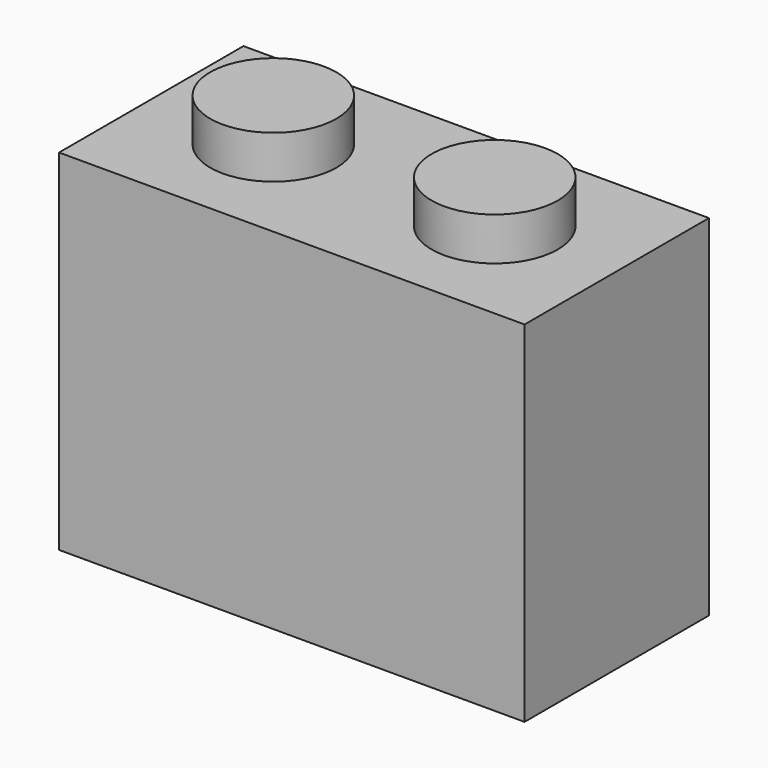
from build123d import *

# Parameters (mm, degrees)
F0_W     = 15.6464
F0_H     = 7.747
F1_DEPTH = 9.398
F2_W     = 15.6464
F2_H     = 7.747
F2_R     = 2.1209
F3_DEPTH = 2.3622
F4_DEPTH = 1.7272
F5_DEPTH = 2.0828


with BuildPart() as f1:
    # F0 (on Top) → F1 (new body)
    with BuildSketch(Plane.XY):
        Rectangle(F0_W, F0_H)
    extrude(amount=F1_DEPTH)

    # F2 (on face) → F3 (join)
    with BuildSketch(Plane.XY.offset(9.398)):
        Rectangle(F2_W, F2_H)
        with Locations((-3.7211, 0)):
            Circle(F2_R, mode=Mode.SUBTRACT)
        with Locations((3.7211, 0)):
            Circle(F2_R, mode=Mode.SUBTRACT)
    extrude(amount=F3_DEPTH)

    # F4 (add): faces of the model
    f4_faces = [f1.faces().sort_by_distance(p)[0] for p in [
        (3.7211, 0, 9.398),
        (-3.7211, 0, 9.398),
    ]]
    extrude(f4_faces, amount=F4_DEPTH)

    # F5 (add): faces of the model
    f5_faces = [f1.faces().sort_by_distance(p)[0] for p in [
        (-3.7211, 0, 11.1252),
        (3.7211, 0, 11.1252),
        (-3.7211, 0, 11.1252),
        (3.7211, 0, 11.1252),
    ]]
    extrude(f5_faces, amount=F5_DEPTH)


solid = f1.part
